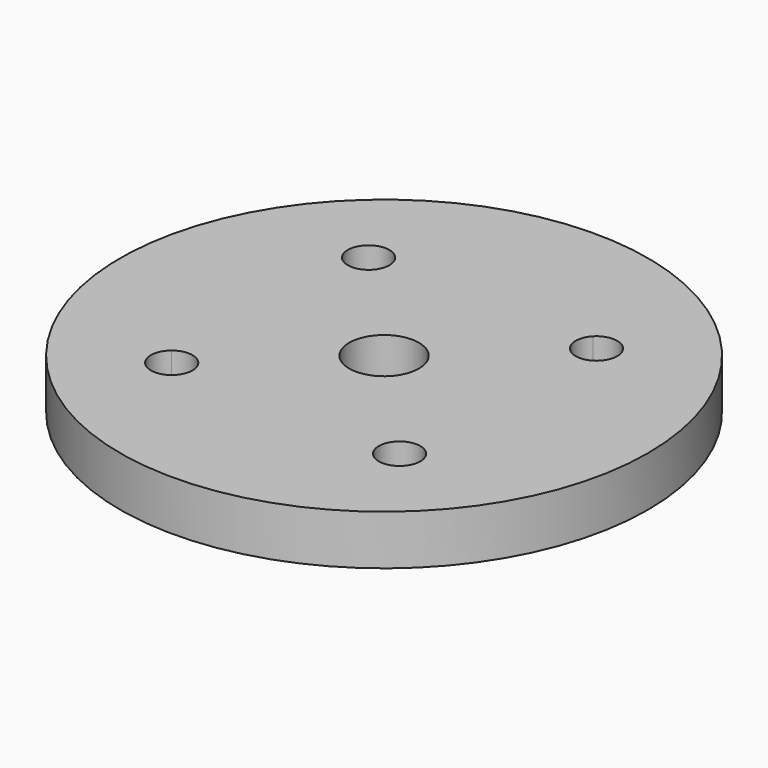
from build123d import *

# Parameters (mm, degrees)
F0_R     = 15.875
F1_DEPTH = 3
F3_DEPTH = 5
F4_R     = 2.1
F5_DEPTH = 3


with BuildPart() as f1:
    # F0 (on Top) → F1 (new body)
    with BuildSketch(Plane.XY):
        Circle(F0_R)
    extrude(amount=F1_DEPTH)

    # F2 (on face) → F3 (cut)
    with BuildSketch(Plane.XY.offset(3)):
        with BuildLine():
            ThreePointArc((-5.83022, 8.124563), (-6.798257, 7.333737), (-7.66007, 6.428322))
            ThreePointArc((-7.66007, 6.428322), (-6.305696, 6.184876), (-5.548257, 7.333737))
            ThreePointArc((-5.548257, 7.333737), (-5.620856, 7.753532), (-5.83022, 8.124563))
        make_face()
        with BuildLine():
            ThreePointArc((-5.83022, 8.124563), (-7.648039, 8.250455), (-7.66007, 6.428322))
            ThreePointArc((-7.66007, 6.428322), (-6.798257, 7.333737), (-5.83022, 8.124563))
        make_face()
        with BuildLine():
            ThreePointArc((8.583737, 6.798257), (7.797812, 7.958918), (6.428322, 7.66007))
            ThreePointArc((6.428322, 7.66007), (7.333737, 6.798257), (8.124563, 5.83022))
            ThreePointArc((8.124563, 5.83022), (8.463125, 6.262548), (8.583737, 6.798257))
        make_face()
        with BuildLine():
            ThreePointArc((8.124563, 5.83022), (7.333737, 6.798257), (6.428322, 7.66007))
            ThreePointArc((6.428322, 7.66007), (6.41702, 5.948475), (8.124563, 5.83022))
        make_face()
        with BuildLine():
            ThreePointArc((7.66007, -6.428322), (6.798257, -7.333737), (5.83022, -8.124563))
            ThreePointArc((5.83022, -8.124563), (7.218051, -8.511138), (8.048257, -7.333737))
            ThreePointArc((8.048257, -7.333737), (7.947119, -6.841176), (7.66007, -6.428322))
        make_face()
        with BuildLine():
            ThreePointArc((7.66007, -6.428322), (5.948475, -6.41702), (5.83022, -8.124563))
            ThreePointArc((5.83022, -8.124563), (6.798257, -7.333737), (7.66007, -6.428322))
        make_face()
        with BuildLine():
            ThreePointArc((-6.428322, -7.66007), (-7.333737, -6.798257), (-8.124563, -5.83022))
            ThreePointArc((-8.124563, -5.83022), (-8.250455, -7.648039), (-6.428322, -7.66007))
        make_face()
        with BuildLine():
            ThreePointArc((-6.428322, -7.66007), (-6.173076, -7.262331), (-6.083737, -6.798257))
            ThreePointArc((-6.083737, -6.798257), (-6.798029, -5.668869), (-8.124563, -5.83022))
            ThreePointArc((-8.124563, -5.83022), (-7.333737, -6.798257), (-6.428322, -7.66007))
        make_face()
    extrude(amount=-F3_DEPTH, mode=Mode.SUBTRACT)

    # F4 (on face) → F5 (cut, through all)
    with BuildSketch(Plane.XY.offset(3)):
        Circle(F4_R)
    extrude(amount=-F5_DEPTH, mode=Mode.SUBTRACT)


solid = f1.part
